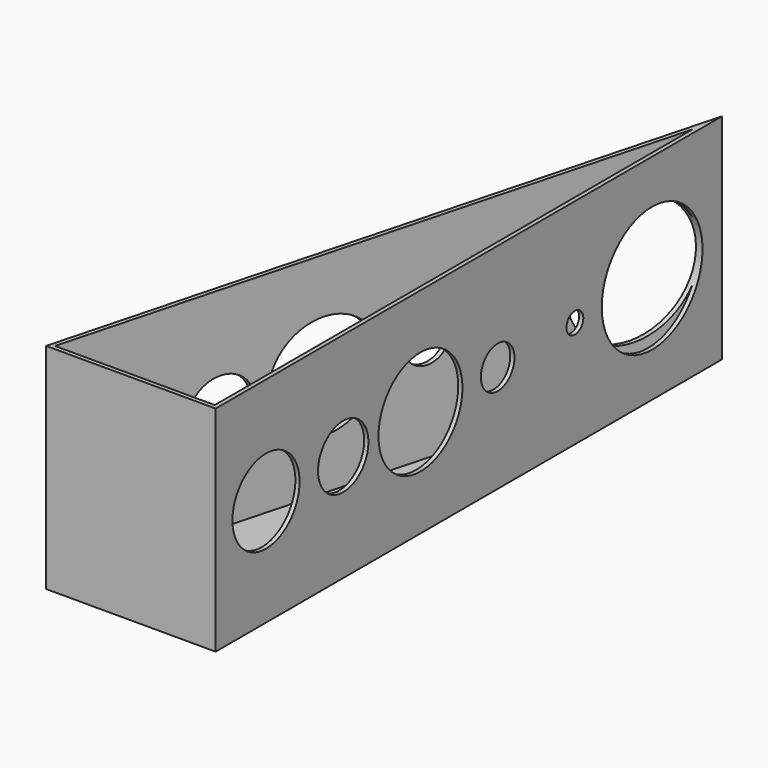
from build123d import *

# Parameters (mm, degrees)
F1_DEPTH = 50
F2_T     = 1
F4_D     = 30
F5_D     = 20
F6_D     = 25
F7_D     = 10
F8_D     = 5
F9_D     = 15


with BuildPart() as f1:
    # F0 (on Top) → F1 (new body)
    with BuildSketch(Plane.XY):
        Polygon((-20.9249958888, -14.6793369754), (-20.9249958888, 127.5117987929), (-59.0249958888, -14.6793369754), align=None)
    extrude(amount=F1_DEPTH)

    # F2
    f2_openings = [f1.faces().sort_by_distance(p)[0] for p in [
        (-33.624996, 32.717708, 50),
    ]]
    offset(amount=F2_T, openings=f2_openings, kind=Kind.INTERSECTION)

    # F4 (through all)
    with Locations(Plane.YZ.offset(-19.9249958888)):
        with Locations((114.3206630246, 24.5)):
            Hole(F4_D / 2)

    # F5 (through all)
    with Locations(Plane.YZ.offset(-19.9249958888)):
        with Locations((-0.6793369754, 24.5)):
            Hole(F5_D / 2)

    # F6 (through all)
    with Locations(Plane.YZ.offset(-19.9249958888)):
        with Locations((45.3206630246, 24.5)):
            Hole(F6_D / 2)

    # F7 (through all)
    with Locations(Plane.YZ.offset(-19.9249958888)):
        with Locations((68.3206630246, 24.5)):
            Hole(F7_D / 2)

    # F8 (through all)
    with Locations(Plane.YZ.offset(-19.9249958888)):
        with Locations((91.3206630246, 24.5)):
            Hole(F8_D / 2)

    # F9 (through all)
    with Locations(Plane.YZ.offset(-19.9249958888)):
        with Locations((22.3206630246, 24.5)):
            Hole(F9_D / 2)


solid = f1.part
